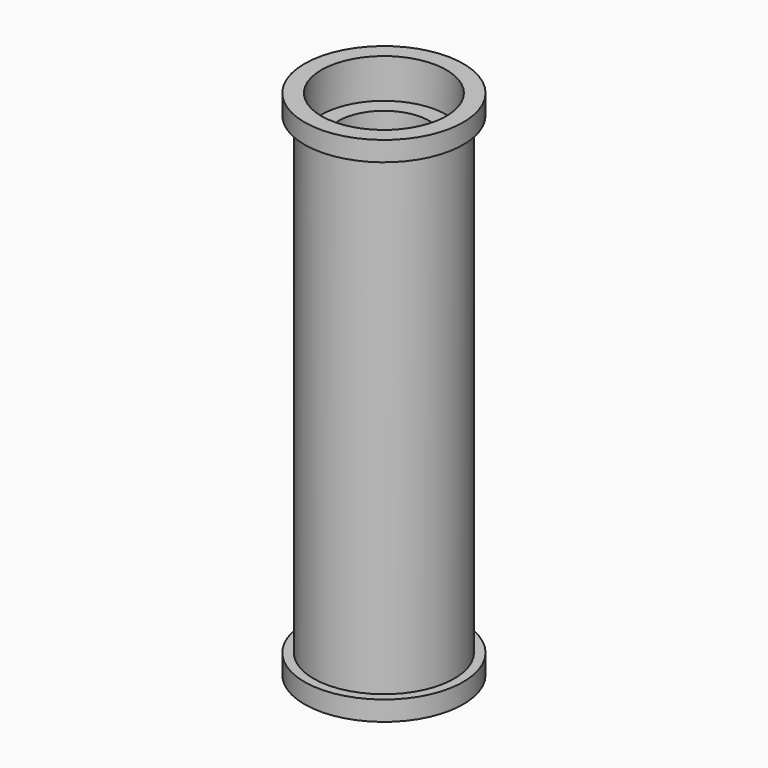
from build123d import *


with BuildPart() as f1:
    # F0 (on Front) → F1 (revolve)
    with BuildSketch(Plane.XZ):
        Polygon((-11.1, 36.497446), (-14.1, 36.497446), (-14.1, 32.997446), (-12.5, 32.997446), (-12.5, -51.002554), (-14.1, -51.002554), (-14.1, -54.502554), (-11.1, -54.502554), (-11.1, -47.502554), (-8.1, -47.502554), (-8.1, 29.497446), (-11.1, 29.497446), align=None)
    revolve(axis=Axis((0, 0, -4.749926), (0, 0, -1)))

    # F2 (on Front) → F3 (revolve, cut)
    with BuildSketch(Plane.XZ):
        Polygon((-8.1, -44.502554), (-8.1, 26.497446), (-10, 21.136243), (-10, -39.321366), align=None)
    revolve(axis=Axis((0, 0, 29.497446), (0, 0, -1)), mode=Mode.SUBTRACT)


solid = f1.part
